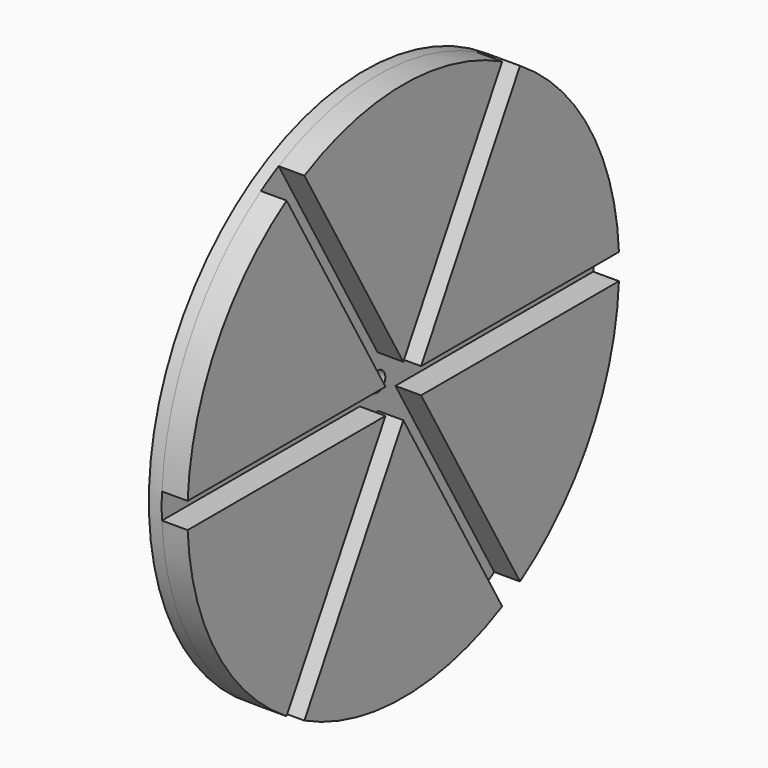
from build123d import *

# Parameters (mm, degrees)
SKETCH_0_R         = 210
SKETCH_0_R_2       = 7.5
PAD_DEPTH          = 10
PAD001_DEPTH       = 20
POLARPATTERN_COUNT = 6


with BuildPart() as part:
    with BuildSketch(Plane.YZ):
        Circle(SKETCH_0_R)
        Circle(SKETCH_0_R_2, mode=Mode.SUBTRACT)
    extrude(amount=-PAD_DEPTH)

    with BuildSketch(Plane.YZ):
        with BuildLine():
            Line((113.541139, 176.659021), (17.320508, 10))
            Line((209.76177, 10), (17.320508, 10))
            ThreePointArc((209.76177, 10), (181.865335, 105), (113.541139, 176.659021))
        make_face()
    pad001 = extrude(amount=PAD001_DEPTH)

    # PolarPattern: Pad001 ×6 about axis
    polarpattern_axis = Axis((0, 0, 0), (1, 0, 0))
    for i in range(1, POLARPATTERN_COUNT):
        add(pad001.rotate(polarpattern_axis, i * 360 / POLARPATTERN_COUNT))


solid = part.part
